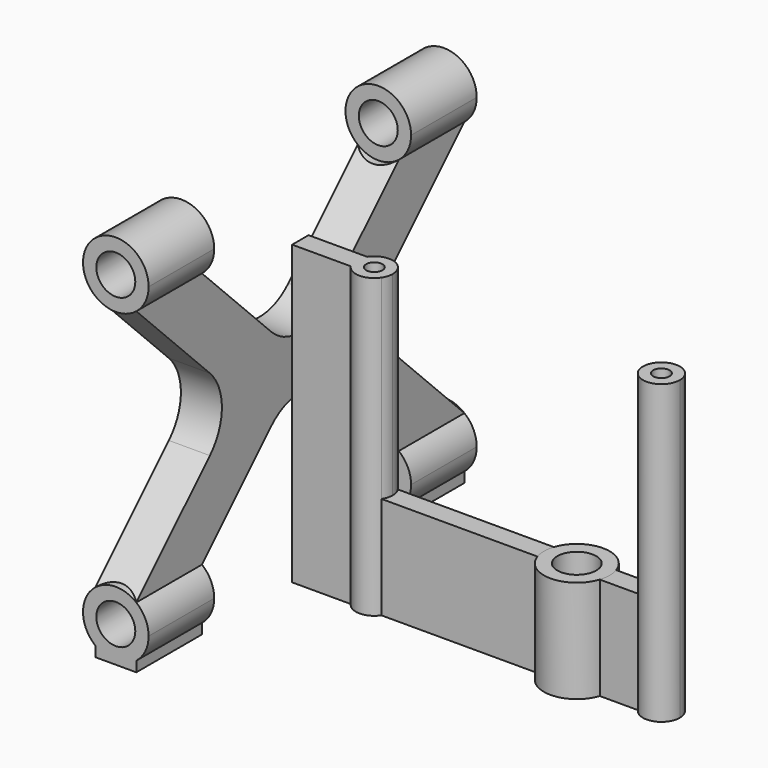
from build123d import *

# Parameters (mm, degrees)
F0_R     = 0.8
F1_DEPTH = 29
F2_DEPTH = 10
F0_R_2   = 1.9
F3_DEPTH = 10
F5_START = 12
F4_R     = 1.9
F5_DEPTH = 8
F6_START = -12
F6_DEPTH = 8
F7_DEPTH = 20
F9_DEPTH = 4
F10_R    = 5


with BuildPart() as f1:
    # F0 (on Top) → F1 (new body)
    with BuildSketch(Plane.XY):
        with BuildLine():
            ThreePointArc((-17.95, 0), (-18.027502784, 0.522497216), (-18.2533370453, 1))
            ThreePointArc((-18.2533370453, 1), (-19.75, 1.8), (-21.2466629547, 1))
            ThreePointArc((-21.2466629547, 1), (-21.55, 0), (-21.2466629547, -1))
            ThreePointArc((-21.2466629547, -1), (-19.75, -1.8), (-18.2533370453, -1))
            ThreePointArc((-18.2533370453, -1), (-18.027502784, -0.522497216), (-17.95, 0))
        make_face()
        with Locations((-19.75, 0)):
            Circle(F0_R, mode=Mode.SUBTRACT)
        with BuildLine():
            ThreePointArc((-21.2466629547, -1), (-21.55, 0), (-21.2466629547, 1))
            Line((-21.2466629547, 1), (-26.9602631693, 1))
            Line((-26.9602631693, 1), (-26.9602631693, -1))
            Line((-26.9602631693, -1), (-21.2466629547, -1))
        make_face()
    extrude(amount=F1_DEPTH)


with BuildPart() as f1b:
    # F0 (on Top) → F1, piece 2 (new body)
    with BuildSketch(Plane.XY):
        with BuildLine():
            ThreePointArc((10.05, 0), (8.772497216, 1.722497216), (6.7533370453, 1))
            ThreePointArc((6.7533370453, 1), (6.45, 0), (6.7533370453, -1))
            ThreePointArc((6.7533370453, -1), (8.772497216, -1.722497216), (10.05, 0))
        make_face()
        with Locations((8.25, 0)):
            Circle(F0_R, mode=Mode.SUBTRACT)
    extrude(amount=F1_DEPTH)


with BuildPart() as f2:
    # F0 (on Top) → F2 (new body)
    with BuildSketch(Plane.XY):
        with BuildLine():
            ThreePointArc((-3.0397368307, -1), (-3.2, 0), (-3.0397368307, 1))
            Line((-3.0397368307, 1), (-18.2533370453, 1))
            ThreePointArc((-18.2533370453, 1), (-18.027502784, 0.522497216), (-17.95, 0))
            ThreePointArc((-17.95, 0), (-18.027502784, -0.522497216), (-18.2533370453, -1))
            Line((-18.2533370453, -1), (-3.0397368307, -1))
        make_face()
    extrude(amount=F2_DEPTH)


with BuildPart() as f2b:
    # F0 (on Top) → F2, piece 2 (new body)
    with BuildSketch(Plane.XY):
        with BuildLine():
            ThreePointArc((3.0397368307, 1), (3.1596801941, 0.5063803618), (3.2, 0))
            ThreePointArc((3.2, 0), (3.1596801941, -0.5063803618), (3.0397368307, -1))
            Line((3.0397368307, -1), (6.7533370453, -1))
            ThreePointArc((6.7533370453, -1), (6.45, 0), (6.7533370453, 1))
            Line((6.7533370453, 1), (3.0397368307, 1))
        make_face()
    extrude(amount=F2_DEPTH)


with BuildPart() as f3:
    # F0 (on Top) → F3 (new body)
    with BuildSketch(Plane.XY):
        with BuildLine():
            ThreePointArc((3.0397368307, -1), (3.1596801941, -0.5063803618), (3.2, 0))
            ThreePointArc((3.2, 0), (3.1596801941, 0.5063803618), (3.0397368307, 1))
            ThreePointArc((3.0397368307, 1), (0, 3.2), (-3.0397368307, 1))
            ThreePointArc((-3.0397368307, 1), (-3.2, 0), (-3.0397368307, -1))
            ThreePointArc((-3.0397368307, -1), (0, -3.2), (3.0397368307, -1))
        make_face()
        Circle(F0_R_2, mode=Mode.SUBTRACT)
    extrude(amount=F3_DEPTH)


with BuildPart() as f5:
    # F4 (on Front) → F5 (new body)
    with BuildSketch(Plane.XZ.offset(F5_START)):
        with BuildLine():
            ThreePointArc((-26.9602631693, 31.0020008006), (-26.0758221489, 32.1143593539), (-25.7602631693, 33.5))
            ThreePointArc((-25.7602631693, 33.5), (-30.3459038153, 36.3844410204), (-30.9602631693, 31.0020008006))
            ThreePointArc((-30.9602631693, 31.0020008006), (-28.9602631693, 30.3), (-26.9602631693, 31.0020008006))
        make_face()
        with Locations((-28.9602631693, 33.5)):
            Circle(F4_R, mode=Mode.SUBTRACT)
    extrude(amount=F5_DEPTH)


with BuildPart() as f5b:
    # F4 (on Front) → F5, piece 2 (new body)
    with BuildSketch(Plane.XZ.offset(F5_START)):
        with BuildLine():
            ThreePointArc((-26.9602631693, 5.9979991994), (-28.9602631693, 6.7), (-30.9602631693, 5.9979991994))
            ThreePointArc((-30.9602631693, 5.9979991994), (-32.1602631693, 3.5), (-30.9602631693, 1.0020008006))
            ThreePointArc((-30.9602631693, 1.0020008006), (-28.9602631693, 0.3), (-26.9602631693, 1.0020008006))
            ThreePointArc((-26.9602631693, 1.0020008006), (-26.0758221489, 2.1143593539), (-25.7602631693, 3.5))
            ThreePointArc((-25.7602631693, 3.5), (-26.0758221489, 4.8856406461), (-26.9602631693, 5.9979991994))
        make_face()
        with Locations((-28.9602631693, 3.5)):
            Circle(F4_R, mode=Mode.SUBTRACT)
        with BuildLine():
            ThreePointArc((-26.9602631693, 1.0020008006), (-28.9602631693, 0.3), (-30.9602631693, 1.0020008006))
            Line((-30.9602631693, 1.0020008006), (-30.9602631693, 0))
            Line((-30.9602631693, 0), (-26.9602631693, 0))
            Line((-26.9602631693, 0), (-26.9602631693, 1.0020008006))
        make_face()
    extrude(amount=F5_DEPTH)


with BuildPart() as f6:
    # F4 (on Front) → F6 (new body)
    with BuildSketch(Plane.XZ.offset(F6_START)):
        with BuildLine():
            ThreePointArc((-26.9602631693, 31.0020008006), (-26.0758221489, 32.1143593539), (-25.7602631693, 33.5))
            ThreePointArc((-25.7602631693, 33.5), (-30.3459038153, 36.3844410204), (-30.9602631693, 31.0020008006))
            ThreePointArc((-30.9602631693, 31.0020008006), (-28.9602631693, 30.3), (-26.9602631693, 31.0020008006))
        make_face()
        with Locations((-28.9602631693, 33.5)):
            Circle(F4_R, mode=Mode.SUBTRACT)
    extrude(amount=-F6_DEPTH)


with BuildPart() as f6b:
    # F4 (on Front) → F6, piece 2 (new body)
    with BuildSketch(Plane.XZ.offset(F6_START)):
        with BuildLine():
            ThreePointArc((-26.9602631693, 5.9979991994), (-28.9602631693, 6.7), (-30.9602631693, 5.9979991994))
            ThreePointArc((-30.9602631693, 5.9979991994), (-32.1602631693, 3.5), (-30.9602631693, 1.0020008006))
            ThreePointArc((-30.9602631693, 1.0020008006), (-28.9602631693, 0.3), (-26.9602631693, 1.0020008006))
            ThreePointArc((-26.9602631693, 1.0020008006), (-26.0758221489, 2.1143593539), (-25.7602631693, 3.5))
            ThreePointArc((-25.7602631693, 3.5), (-26.0758221489, 4.8856406461), (-26.9602631693, 5.9979991994))
        make_face()
        with Locations((-28.9602631693, 3.5)):
            Circle(F4_R, mode=Mode.SUBTRACT)
        with BuildLine():
            ThreePointArc((-26.9602631693, 1.0020008006), (-28.9602631693, 0.3), (-30.9602631693, 1.0020008006))
            Line((-30.9602631693, 1.0020008006), (-30.9602631693, 0))
            Line((-30.9602631693, 0), (-26.9602631693, 0))
            Line((-26.9602631693, 0), (-26.9602631693, 1.0020008006))
        make_face()
    extrude(amount=-F6_DEPTH)


with BuildPart() as f7:
    # F4 (on Front) → F7 (new body, symmetric)
    with BuildSketch(Plane.XZ):
        with BuildLine():
            ThreePointArc((-26.9602631693, 31.0020008006), (-28.9602631693, 30.3), (-30.9602631693, 31.0020008006))
            Line((-30.9602631693, 31.0020008006), (-30.9602631693, 5.9979991994))
            ThreePointArc((-30.9602631693, 5.9979991994), (-28.9602631693, 6.7), (-26.9602631693, 5.9979991994))
            Line((-26.9602631693, 5.9979991994), (-26.9602631693, 31.0020008006))
        make_face()
    extrude(amount=F7_DEPTH, both=True)

    # F8 (on face) → F9 (cut, through all)
    with BuildSketch(Plane(origin=(-30.9602631693, 0, 0), x_dir=(0, -1, 0), z_dir=(-1, 0, 0))):
        Polygon((-7.4979991994, 18.5), (-20, 31.0020008006), (-20, 5.9979991994), align=None)
        Polygon((12, 31.0020008006), (-12, 31.0020008006), (0, 19.0020008006), align=None)
        Polygon((20, 5.9979991994), (20, 31.0020008006), (7.4979991994, 18.5), align=None)
        Polygon((0, 17.9979991994), (-12, 5.9979991994), (12, 5.9979991994), align=None)
    extrude(amount=-F9_DEPTH, mode=Mode.SUBTRACT)

    # F10
    f10_edges = [f7.edges().sort_by_distance(p)[0] for p in [
        (-28.960263, 7.497999, 18.5),
        (-28.960263, -7.497999, 18.5),
        (-28.960263, 0, 19.002001),
        (-28.960263, 0, 17.997999),
    ]]
    fillet(f10_edges, radius=F10_R)


solid = Compound([f1.part, f1b.part, f2.part, f2b.part, f3.part, f5.part, f5b.part, f6.part, f6b.part, f7.part])
